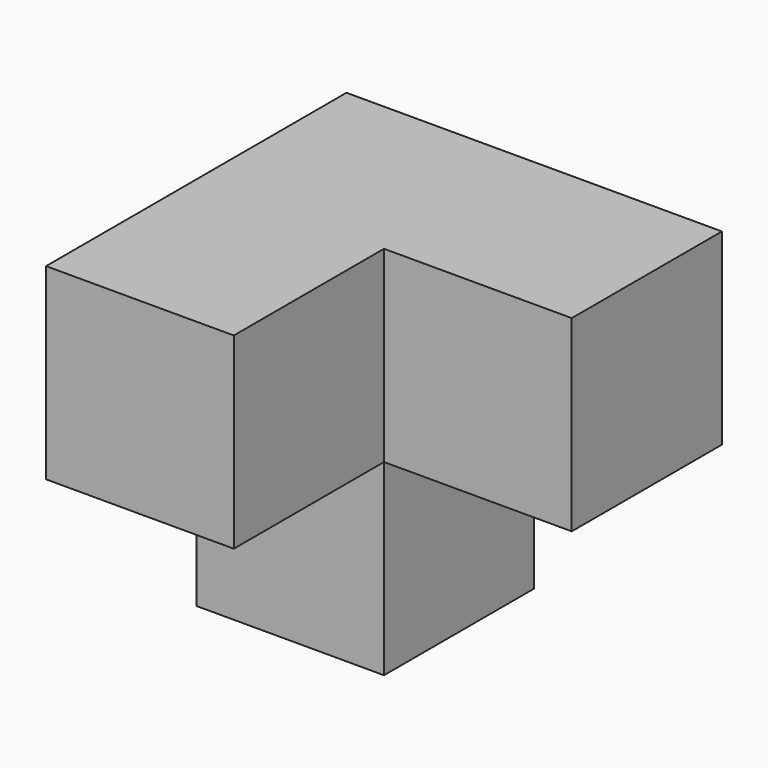
from build123d import *

# Parameters (mm, degrees)
F1_DEPTH = 19.05
F2_W     = 19.05
F2_H     = 19.05
F3_DEPTH = 19.05


with BuildPart() as f1:
    # F0 (on Top) → F1 (new body)
    with BuildSketch(Plane.XY):
        Polygon((38.1, 0), (0, 0), (0, -38.1), (19.05, -38.1), (19.05, -19.05), (38.1, -19.05), align=None)
    extrude(amount=F1_DEPTH)

    # F2 (on face) → F3 (join)
    with BuildSketch(Plane(origin=(0, 0, 0), x_dir=(1, 0, 0), z_dir=(0, 0, -1))):
        with Locations((9.525, 9.525)):
            Rectangle(F2_W, F2_H)
    extrude(amount=F3_DEPTH)


solid = f1.part
